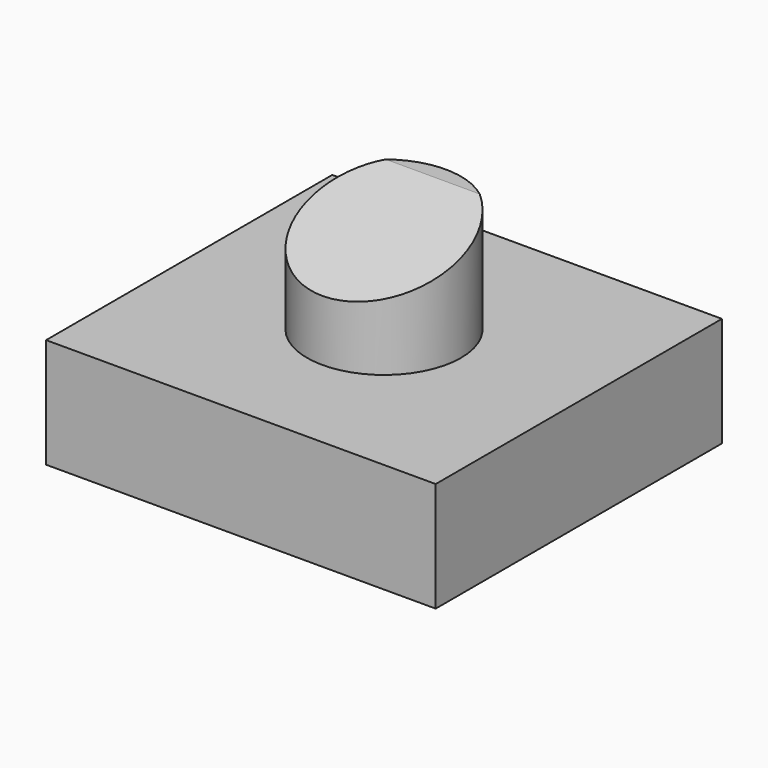
from build123d import *

# Parameters (mm, degrees)
F0_R     = 17.5393156129
F1_DEPTH = 50
F2_W     = 88.7956470251
F2_H     = 81.5360844135
F3_DEPTH = 25
F5_DEPTH = 25


with BuildPart() as f1:
    # F0 (on Top) → F1 (new body)
    with BuildSketch(Plane.XY):
        Circle(F0_R)
    extrude(amount=F1_DEPTH)

    # F2 (on Top) → F3 (join)
    with BuildSketch(Plane.XY):
        Rectangle(F2_W, F2_H)
    extrude(amount=F3_DEPTH)

    # F4 (on Right) → F5 (cut, symmetric)
    with BuildSketch(Plane.YZ):
        Polygon((-20.2884618193, 37.8846153617), (19.3269234151, 51.9230812788), (-20.2884618193, 53.4615404904), align=None)
    extrude(amount=F5_DEPTH, both=True, mode=Mode.SUBTRACT)


solid = f1.part
